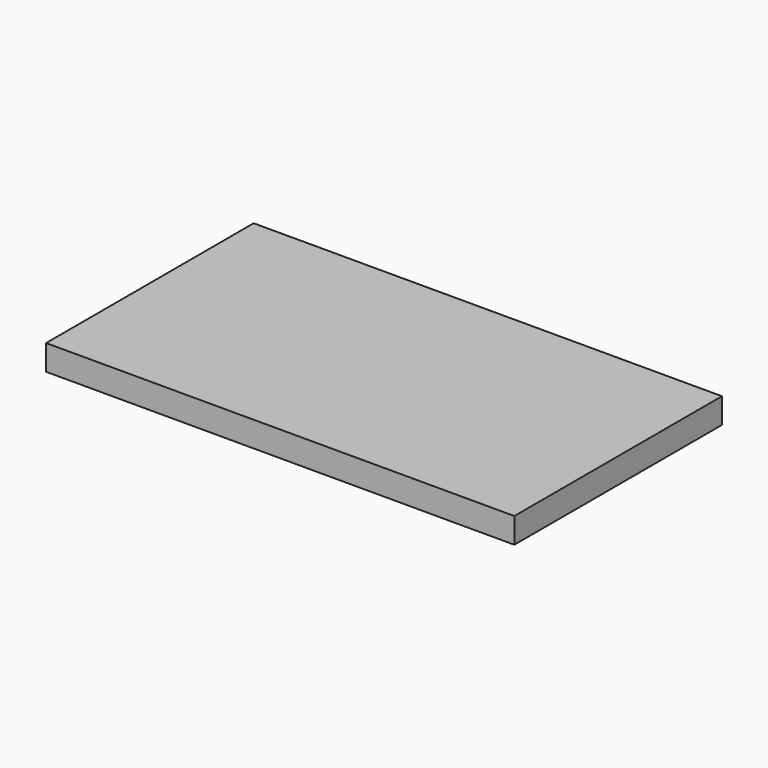
from build123d import *

# Parameters (mm, degrees)
F0_W     = 939.8
F0_H     = 520.7
F1_DEPTH = 50.8
F4_DEPTH = 50.8
F5_D     = 6.35
F7_R     = 3.175
F8_DEPTH = 50.8


with BuildPart() as f1:
    # F0 (on Top) → F1 (new body)
    with BuildSketch(Plane.XY):
        with Locations((469.9, 260.35)):
            Rectangle(F0_W, F0_H)
    extrude(amount=F1_DEPTH)

    # F3 (on offset) → F4 (join)
    with BuildSketch(Plane.YZ.offset(850.9)):
        with BuildLine():
            ThreePointArc((549.275, 6.35), (540.9055762724, 26.5555762724), (520.7, 34.925))
            Line((520.7, 34.925), (520.7, 6.35))
            Line((520.7, 6.35), (549.275, 6.35))
        make_face()
    extrude(amount=-F4_DEPTH)

    # F5 (through all)
    with Locations(Plane.YZ.offset(850.9)):
        with Locations((539.75, 12.7)):
            Hole(F5_D / 2)

    # F7 (on offset) → F8 (join)
    with BuildSketch(Plane(origin=(88.9, 0, 0), x_dir=(0, -1, 0), z_dir=(-1, 0, 0))):
        with BuildLine():
            ThreePointArc((-520.7, 34.925), (-540.9055762724, 26.5555762724), (-549.275, 6.35))
            Line((-549.275, 6.35), (-520.7, 6.35))
            Line((-520.7, 6.35), (-520.7, 34.925))
        make_face()
        with Locations((-539.75, 12.7)):
            Circle(F7_R, mode=Mode.SUBTRACT)
    extrude(amount=-F8_DEPTH)


solid = f1.part
